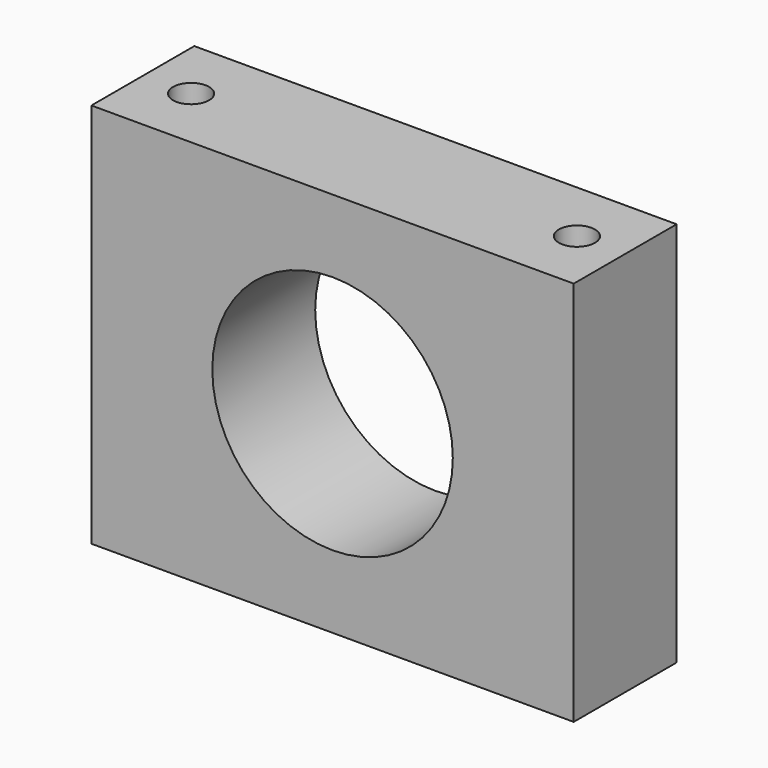
from build123d import *

# Parameters (mm, degrees)
F0_W     = 95.25
F0_H     = 76.2
F1_DEPTH = 25.4
F2_R     = 23.749
F3_DEPTH = 25.4
F4_R     = 3.5687
F5_DEPTH = 76.201


with BuildPart() as f1:
    # F0 (on Front) → F1 (new body)
    with BuildSketch(Plane.XZ):
        with Locations((-13.81796, 38.1)):
            Rectangle(F0_W, F0_H)
    extrude(amount=F1_DEPTH)

    # F2 (on face) → F3 (cut)
    with BuildSketch(Plane.XZ.offset(25.4)):
        with Locations((-13.81796, 38.1)):
            Circle(F2_R)
    extrude(amount=-F3_DEPTH, mode=Mode.SUBTRACT)

    # F4 (on face) → F5 (cut, through all)
    with BuildSketch(Plane.XY.offset(76.2)):
        with Locations((24.28204, -12.7)):
            Circle(F4_R)
        with Locations((-51.91796, -12.7)):
            Circle(F4_R)
    extrude(amount=-F5_DEPTH, mode=Mode.SUBTRACT)


solid = f1.part
